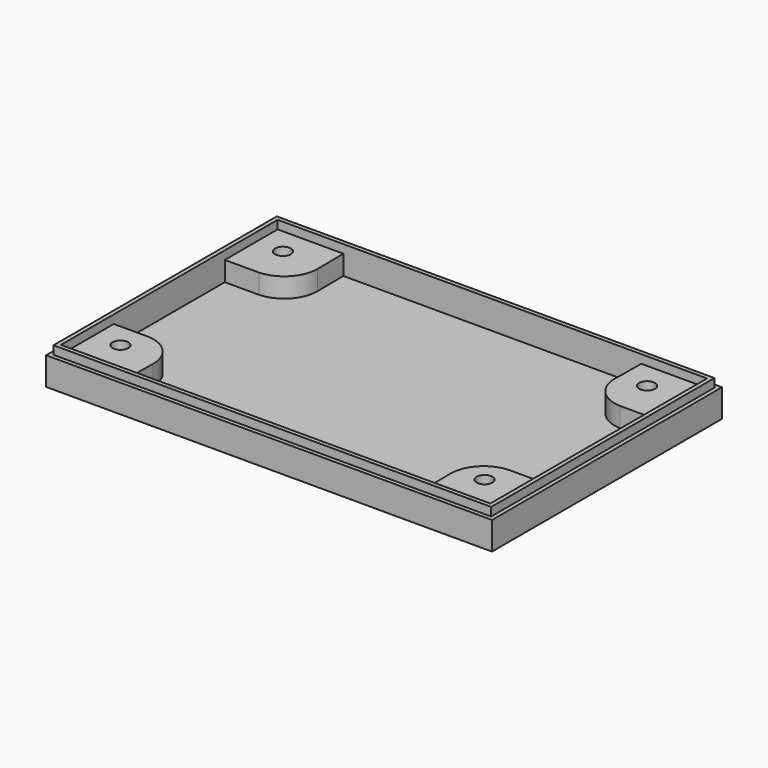
from build123d import *

# Parameters (mm, degrees)
F0_W      = 85.725
F0_H      = 55.245
F1_DEPTH  = 6.985
F2_T      = -1.5875
F4_DEPTH  = 3.7719
F5_R      = 1.524
F6_DEPTH  = 5.3604
F7_R      = 2.54
F7_R_2    = 1.524
F8_DEPTH  = 2.159
F9_W      = 85.725
F9_H      = 55.245
F9_W_2    = 84.1375
F9_H_2    = 53.6575
F10_DEPTH = 1.6256


with BuildPart() as f1:
    # F0 (on Top) → F1 (new body)
    with BuildSketch(Plane.XY):
        Rectangle(F0_W, F0_H)
    extrude(amount=F1_DEPTH)

    # F2
    f2_openings = [f1.faces().sort_by_distance(p)[0] for p in [
        (0, 0, 6.985),
    ]]
    offset(amount=F2_T, openings=f2_openings)

    # F3 (on face) → F4 (join)
    with BuildSketch(Plane.XY.offset(1.5875)):
        with BuildLine():
            Line((-41.275, 13.3379847444), (-35.1196724052, 13.3379847444))
            Line((-35.1196724052, 13.3379847444), (-34.7303275948, 13.3379847444))
            ThreePointArc((-34.7303275948, 13.3379847444), (-30.3438107725, 15.2878184866), (-28.5753382402, 19.7505403419))
            Line((-28.5753382402, 19.7505403419), (-28.6402055749, 26.035))
            Line((-28.6402055749, 26.035), (-41.275, 26.035))
            Line((-41.275, 26.035), (-41.275, 13.3379847444))
        make_face()
        with BuildLine():
            Line((41.275, 26.035), (28.6402055749, 26.035))
            Line((28.6402055749, 26.035), (28.5753382402, 19.7505403419))
            ThreePointArc((28.5753382402, 19.7505403419), (30.3438107725, 15.2878184866), (34.7303275948, 13.3379847444))
            Line((34.7303275948, 13.3379847444), (35.1196724052, 13.3379847444))
            Line((35.1196724052, 13.3379847444), (41.275, 13.3379847444))
            Line((41.275, 13.3379847444), (41.275, 26.035))
        make_face()
        with BuildLine():
            Line((28.5753382402, -19.7505403419), (28.6402055749, -26.035))
            Line((28.6402055749, -26.035), (41.275, -26.035))
            Line((41.275, -26.035), (41.275, -13.3379847444))
            Line((41.275, -13.3379847444), (35.1196724052, -13.3379847444))
            Line((35.1196724052, -13.3379847444), (34.7303275948, -13.3379847444))
            ThreePointArc((34.7303275948, -13.3379847444), (30.3438107725, -15.2878184866), (28.5753382402, -19.7505403419))
        make_face()
        with BuildLine():
            Line((-35.1196724052, -13.3379847444), (-41.275, -13.3379847444))
            Line((-41.275, -13.3379847444), (-41.275, -26.035))
            Line((-41.275, -26.035), (-28.6402055749, -26.035))
            Line((-28.6402055749, -26.035), (-28.5753382402, -19.7505403419))
            ThreePointArc((-28.5753382402, -19.7505403419), (-30.3438107725, -15.2878184866), (-34.7303275948, -13.3379847444))
            Line((-34.7303275948, -13.3379847444), (-35.1196724052, -13.3379847444))
        make_face()
    extrude(amount=F4_DEPTH)

    # F5 (on face) → F6 (cut, through all)
    with BuildSketch(Plane.XY.offset(5.3594)):
        with Locations((33.8074, 20.955)):
            Circle(F5_R)
        with Locations((-36.195, 20.955)):
            Circle(F5_R)
        with Locations((-36.195, -18.0975)):
            Circle(F5_R)
        with Locations((33.8074, -18.0975)):
            Circle(F5_R)
    extrude(amount=-F6_DEPTH, mode=Mode.SUBTRACT)

    # F7 (on face) → F8 (cut)
    with BuildSketch(Plane(origin=(0, 0, 0), x_dir=(1, 0, 0), z_dir=(0, 0, -1))):
        with Locations((-36.195, 18.0975)):
            Circle(F7_R)
        with Locations((-36.195, 18.0975)):
            Circle(F7_R_2, mode=Mode.SUBTRACT)
        with Locations((33.8074, 18.0975)):
            Circle(F7_R)
        with Locations((33.8074, 18.0975)):
            Circle(F7_R_2, mode=Mode.SUBTRACT)
        with Locations((33.8074, -20.955)):
            Circle(F7_R)
        with Locations((33.8074, -20.955)):
            Circle(F7_R_2, mode=Mode.SUBTRACT)
        with Locations((-36.195, -20.955)):
            Circle(F7_R)
        with Locations((-36.195, -20.955)):
            Circle(F7_R_2, mode=Mode.SUBTRACT)
    extrude(amount=-F8_DEPTH, mode=Mode.SUBTRACT)

    # F9 (on face) → F10 (cut)
    with BuildSketch(Plane.XY.offset(6.985)):
        Rectangle(F9_W, F9_H)
        Rectangle(F9_W_2, F9_H_2, mode=Mode.SUBTRACT)
    extrude(amount=-F10_DEPTH, mode=Mode.SUBTRACT)


solid = f1.part
